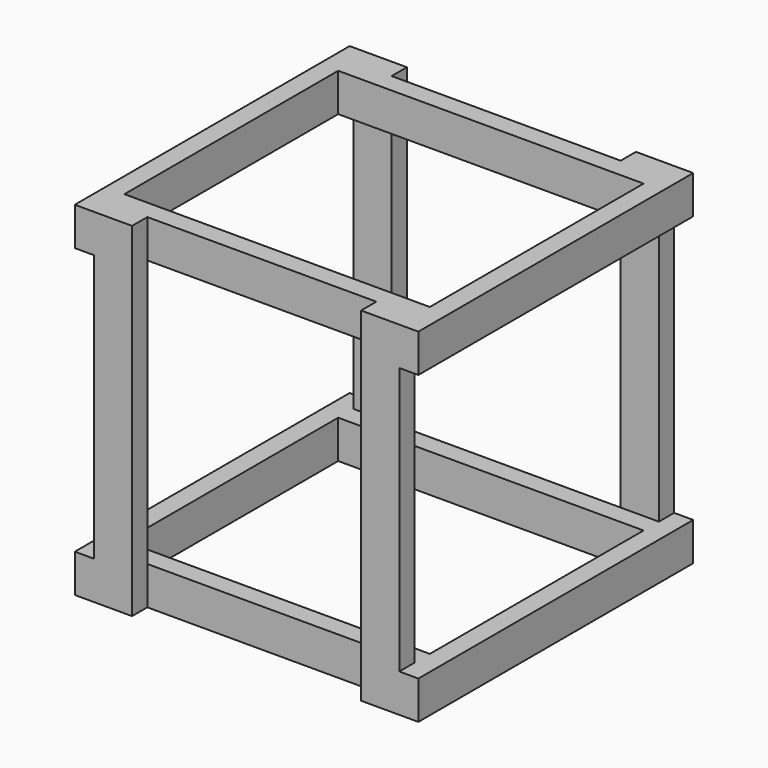
from build123d import *

# Parameters (mm, degrees)
F0_W      = 50.8
F0_H      = 457.2
F1_DEPTH  = 25.4
F2_W      = 25.4
F2_H      = 50.8
F3_DEPTH  = 25.4
F4_W      = 25.4
F4_H      = 50.8
F5_DEPTH  = 431.8
F6_W      = 25.4
F6_H      = 50.8
F7_DEPTH  = 50.8
F8_W      = 50.8
F8_H      = 25.4
F9_DEPTH  = 406.4
F10_W     = 25.4
F10_H     = 50.8
F11_DEPTH = 25.4
F12_W     = 25.4
F12_H     = 50.8
F13_DEPTH = 431.8
F14_W     = 50.8
F14_H     = 50.8
F15_DEPTH = 25.4
F16_W     = 25.4
F16_H     = 50.8
F17_DEPTH = 381
F18_W     = 76.2
F18_H     = 50.8
F19_DEPTH = 25.4
F20_W     = 50.8
F20_H     = 25.4
F21_DEPTH = 406.4
F22_W     = 25.4
F22_H     = 50.8
F23_DEPTH = 406.4
F24_W     = 25.4
F24_H     = 50.8
F25_DEPTH = 431.8
F26_W     = 25.4
F26_H     = 50.8
F27_DEPTH = 406.4
F28_W     = 25.4
F28_H     = 50.8
F29_DEPTH = 25.4
F30_W     = 25.4
F30_H     = 50.8
F31_DEPTH = 431.8
F32_W     = 25.4
F32_H     = 50.8
F33_DEPTH = 431.8
F34_W     = 50.8
F34_H     = 50.8
F35_DEPTH = 25.4
F36_W     = 50.8
F36_H     = 25.4
F37_DEPTH = 406.4


with BuildPart() as f1:
    # F0 (on Front) → F1 (new body)
    with BuildSketch(Plane.XZ):
        with Locations((25.4, 228.6)):
            Rectangle(F0_W, F0_H)
    extrude(amount=F1_DEPTH)

    # F2 (on face) → F3 (join)
    with BuildSketch(Plane.YZ.offset(50.8)):
        with Locations((-12.7, 431.8)):
            Rectangle(F2_W, F2_H)
    extrude(amount=F3_DEPTH)

    # F4 (on face) → F5 (join)
    with BuildSketch(Plane.XZ.offset(25.4)):
        with Locations((63.5, 431.8)):
            Rectangle(F4_W, F4_H)
    extrude(amount=F5_DEPTH)

    # F6 (on face) → F7 (join)
    with BuildSketch(Plane(origin=(50.8, 0, 0), x_dir=(0, -1, 0), z_dir=(-1, 0, 0))):
        with Locations((444.5, 431.8)):
            Rectangle(F6_W, F6_H)
    extrude(amount=F7_DEPTH)

    # F8 (on face) → F9 (join)
    with BuildSketch(Plane(origin=(0, 0, 406.4), x_dir=(1, 0, 0), z_dir=(0, 0, -1))):
        with Locations((25.4, 444.5)):
            Rectangle(F8_W, F8_H)
    extrude(amount=F9_DEPTH)

    # F10 (on face) → F11 (join)
    with BuildSketch(Plane.YZ.offset(50.8)):
        with Locations((-12.7, 25.4)):
            Rectangle(F10_W, F10_H)
    extrude(amount=F11_DEPTH)

    # F12 (on face) → F13 (join)
    with BuildSketch(Plane.XZ.offset(25.4)):
        with Locations((63.5, 25.4)):
            Rectangle(F12_W, F12_H)
    extrude(amount=F13_DEPTH)

    # F14 (on face) → F15 (join)
    with BuildSketch(Plane(origin=(0, -431.8, 0), x_dir=(-1, 0, 0), z_dir=(0, 1, 0))):
        with Locations((-25.4, 431.8)):
            Rectangle(F14_W, F14_H)
    extrude(amount=F15_DEPTH)

    # F16 (on face) → F17 (join)
    with BuildSketch(Plane(origin=(0, 0, 0), x_dir=(0, -1, 0), z_dir=(-1, 0, 0))):
        with Locations((419.1, 431.8)):
            Rectangle(F16_W, F16_H)
    extrude(amount=F17_DEPTH)

    # F18 (on face) → F19 (join)
    with BuildSketch(Plane.XZ.offset(431.8)):
        with Locations((-342.9, 431.8)):
            Rectangle(F18_W, F18_H)
    extrude(amount=F19_DEPTH)

    # F20 (on face) → F21 (join)
    with BuildSketch(Plane(origin=(0, 0, 406.4), x_dir=(1, 0, 0), z_dir=(0, 0, -1))):
        with Locations((-330.2, 444.5)):
            Rectangle(F20_W, F20_H)
    extrude(amount=F21_DEPTH)

    # F22 (on face) → F23 (join)
    with BuildSketch(Plane(origin=(0, -406.4, 0), x_dir=(-1, 0, 0), z_dir=(0, 1, 0))):
        with Locations((368.3, 431.8)):
            Rectangle(F22_W, F22_H)
    extrude(amount=F23_DEPTH)

    # F24 (on face) → F25 (join)
    with BuildSketch(Plane(origin=(50.8, 0, 0), x_dir=(0, -1, 0), z_dir=(-1, 0, 0))):
        with Locations((419.1, 25.4)):
            Rectangle(F24_W, F24_H)
    extrude(amount=F25_DEPTH)

    # F26 (on face) → F27 (join)
    with BuildSketch(Plane(origin=(0, -406.4, 0), x_dir=(-1, 0, 0), z_dir=(0, 1, 0))):
        with Locations((368.3, 25.4)):
            Rectangle(F26_W, F26_H)
    extrude(amount=F27_DEPTH)

    # F28 (on face) → F29 (join)
    with BuildSketch(Plane(origin=(-355.6, 0, 0), x_dir=(0, -1, 0), z_dir=(-1, 0, 0))):
        with Locations((444.5, 25.4)):
            Rectangle(F28_W, F28_H)
    extrude(amount=F29_DEPTH)

    # F30 (on face) → F31 (join)
    with BuildSketch(Plane(origin=(50.8, 0, 0), x_dir=(0, -1, 0), z_dir=(-1, 0, 0))):
        with Locations((38.1, 25.4)):
            Rectangle(F30_W, F30_H)
    extrude(amount=F31_DEPTH)

    # F32 (on face) → F33 (join)
    with BuildSketch(Plane(origin=(50.8, 0, 0), x_dir=(0, -1, 0), z_dir=(-1, 0, 0))):
        with Locations((38.1, 431.8)):
            Rectangle(F32_W, F32_H)
    extrude(amount=F33_DEPTH)

    # F34 (on face) → F35 (join)
    with BuildSketch(Plane(origin=(0, -25.4, 0), x_dir=(-1, 0, 0), z_dir=(0, 1, 0))):
        with Locations((330.2, 25.4)):
            Rectangle(F34_W, F34_H)
    extrude(amount=F35_DEPTH)

    # F36 (on face) → F37 (join)
    with BuildSketch(Plane.XY.offset(50.8)):
        with Locations((-330.2, -12.7)):
            Rectangle(F36_W, F36_H)
    extrude(amount=F37_DEPTH)


solid = f1.part
